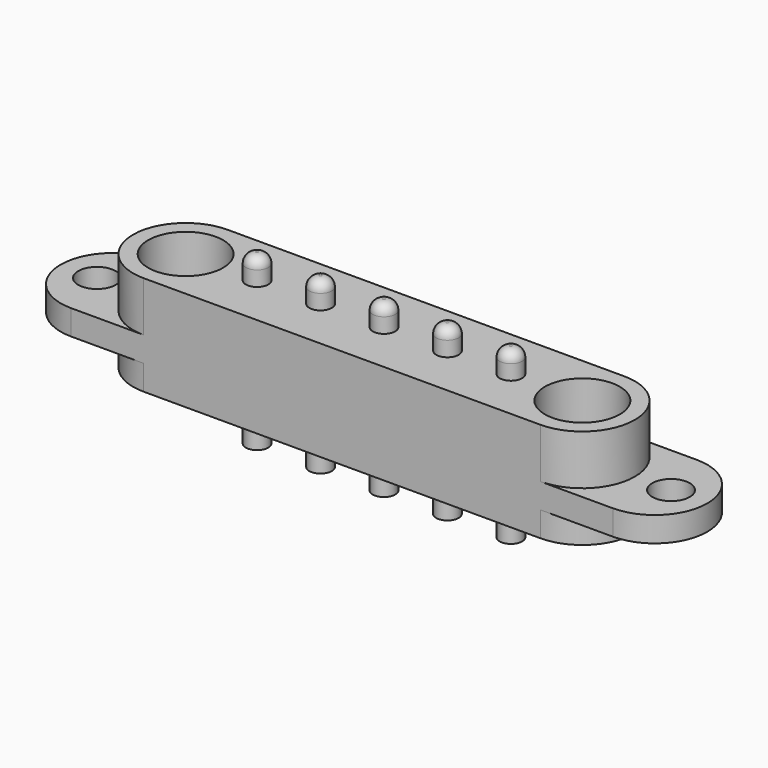
from build123d import *

# Parameters (mm, degrees)
SKETCH_R          = 0.75
PAD_DEPTH         = 1
SKETCH001_R       = 1.5
PAD001_DEPTH      = 2
PAD002_DEPTH      = 2
SKETCH003_R       = 0.45
PAD003_DEPTH      = 3
PAD003_DEPTH_BACK = 3.75
FILLET_R          = 0.4


with BuildPart() as part:
    # Sketch → Pad (new body)
    with BuildSketch(Plane.XY):
        with BuildLine():
            ThreePointArc((10.84, -2.1), (12.94, 0), (10.84, 2.1))
            Line((10.84, 2.1), (-10.84, 2.1))
            ThreePointArc((-10.84, 2.1), (-12.94, 0), (-10.84, -2.1))
            Line((10.84, -2.1), (-10.84, -2.1))
        make_face()
        with Locations((-11.49, 0)):
            Circle(SKETCH_R, mode=Mode.SUBTRACT)
        with Locations((11.49, 0)):
            Circle(SKETCH_R, mode=Mode.SUBTRACT)
    extrude(amount=-PAD_DEPTH)

    # Sketch001 → Pad001 (join)
    with BuildSketch(Plane.XY):
        with BuildLine():
            ThreePointArc((-7.94, 2.1), (-10.04, 0), (-7.94, -2.1))
            Line((-7.94, -2.1), (7.94, -2.1))
            ThreePointArc((7.94, -2.1), (10.04, 0), (7.94, 2.1))
            Line((-7.94, 2.1), (7.94, 2.1))
        make_face()
        with Locations((-7.94, 0)):
            Circle(SKETCH001_R, mode=Mode.SUBTRACT)
        with Locations((7.94, 0)):
            Circle(SKETCH001_R, mode=Mode.SUBTRACT)
    extrude(amount=PAD001_DEPTH)

    # Sketch002 → Pad002 (join)
    with BuildSketch(Plane.XY):
        with BuildLine():
            ThreePointArc((-7.939999, 2.1), (-10.039999, 0), (-7.939999, -2.1))
            Line((-7.939999, -2.1), (7.94, -2.1))
            ThreePointArc((7.94, -2.1), (10.04, 0), (7.94, 2.1))
            Line((-7.939999, 2.1), (7.94, 2.1))
        make_face()
    extrude(amount=-PAD002_DEPTH)

    # Sketch003 → Pad003 (join, two sides)
    with BuildSketch(Plane.XY) as pad003_sk:
        with Locations((-5.08, 0)):
            Circle(SKETCH003_R)
        with Locations((-2.54, 0)):
            Circle(SKETCH003_R)
        Circle(SKETCH003_R)
        with Locations((2.54, 0)):
            Circle(SKETCH003_R)
        with Locations((5.08, 0)):
            Circle(SKETCH003_R)
    extrude(amount=PAD003_DEPTH)
    extrude(pad003_sk.sketch, amount=-PAD003_DEPTH_BACK)

    # Fillet
    fillet_edges = [part.edges().sort_by_distance(p)[0] for p in [
        (-5.53, 0, 3),
        (-2.99, 0, 3),
        (-0.45, 0, 3),
        (2.09, 0, 3),
        (4.63, 0, 3),
    ]]
    fillet(fillet_edges, radius=FILLET_R)


solid = part.part
